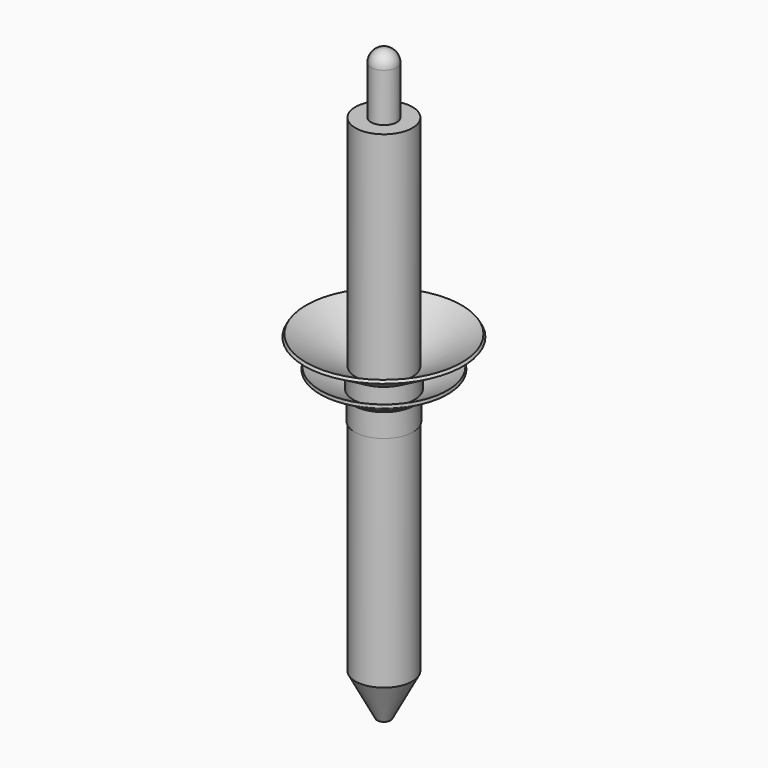
from build123d import *

# Parameters (mm, degrees)
F4_R = 3.175
F7_R = 0.508


with BuildPart() as f1:
    # F0 (on Front) → F1 (revolve)
    with BuildSketch(Plane.XZ):
        Polygon((-4.445, 3.81), (-4.445, 4.572), (-19.05, 13.004201), (-19.431, 12.344289), (-7.493, 5.451882), (-7.493, 0), (-6.731, 0), (-6.731, 3.81), align=None)
    revolve(axis=Axis((0, 0, 10.120624), (0, 0, 1)))


with BuildPart() as f3:
    # F2 (on Front) → F3 (revolve)
    with BuildSketch(Plane.XZ):
        Polygon((0, -69.85), (0, 74.69), (-3.175, 74.69), (-3.175, 59.69), (-6.985, 59.69), (-6.985, -59.69), (-1.651, -69.85), align=None)
    revolve(axis=Axis((0, 0, 2.42), (0, 0, -1)))

    # F4
    f4_edges = [f3.edges().sort_by_distance(p)[0] for p in [
        (3.175, 0, 74.69),
    ]]
    fillet(f4_edges, radius=F4_R)


with BuildPart() as f6:
    # F5 (on Front) → F6 (revolve)
    with BuildSketch(Plane.XZ):
        Polygon((-5.3848, -0.762), (-5.3848, 0), (-15.580618, 5.886558), (-15.961618, 5.226647), (-7.1628, 0.146647), (-7.1628, -5.842), (-6.4008, -5.842), (-6.35, -0.762), align=None)
    revolve(axis=Axis((0, 0, 0), (0, 0, 1)))

    # F7
    f7_edges = [f6.edges().sort_by_distance(p)[0] for p in [
        (15.961618, 0, 5.226647),
    ]]
    fillet(f7_edges, radius=F7_R)


solid = Compound([f1.part, f3.part, f6.part])
